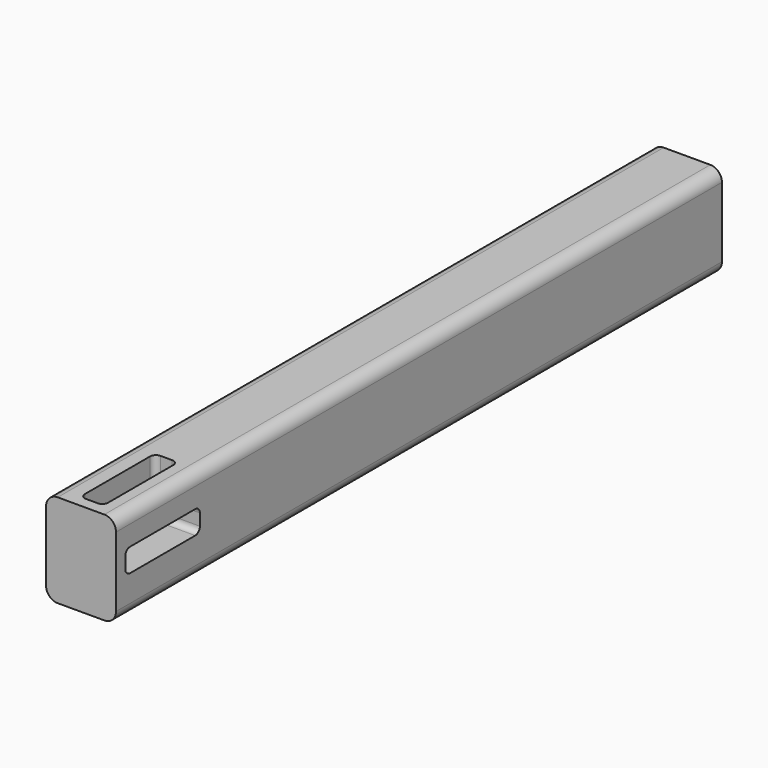
from build123d import *

# Parameters (mm, degrees)
F0_W     = 38.1
F0_H     = 50.8
F1_DEPTH = 412.75
F3_DEPTH = 15.875
F5_DEPTH = 15.875
F6_R     = 6.35


with BuildPart() as f1:
    # F0 (on Front) → F1 (new body)
    with BuildSketch(Plane.XZ):
        with Locations((-2.406317, 4.562353)):
            Rectangle(F0_W, F0_H)
    extrude(amount=-F1_DEPTH)

    # F2 (on face) → F3 (cut)
    with BuildSketch(Plane.YZ.offset(16.643683)):
        with BuildLine():
            Line((53.975, 12.7), (9.525, 12.7))
            ThreePointArc((9.525, 12.7), (7.279936, 11.770064), (6.35, 9.525))
            Line((6.35, 9.525), (6.35, 3.175))
            ThreePointArc((6.35, 3.175), (7.279936, 0.929936), (9.525, 0))
            Line((9.525, 0), (53.975, 0))
            ThreePointArc((53.975, 0), (56.220064, 0.929936), (57.15, 3.175))
            Line((57.15, 3.175), (57.15, 9.525))
            ThreePointArc((57.15, 9.525), (56.220064, 11.770064), (53.975, 12.7))
        make_face()
    extrude(amount=-F3_DEPTH, mode=Mode.SUBTRACT)

    # F4 (on face) → F5 (cut)
    with BuildSketch(Plane.XY.offset(29.962353)):
        with BuildLine():
            ThreePointArc((-4.797424, 57.15), (-7.042488, 56.220064), (-7.972424, 53.975))
            Line((-7.972424, 53.975), (-7.972424, 9.525))
            ThreePointArc((-7.972424, 9.525), (-7.042488, 7.279936), (-4.797424, 6.35))
            Line((-4.797424, 6.35), (1.552576, 6.35))
            ThreePointArc((1.552576, 6.35), (3.79764, 7.279936), (4.727576, 9.525))
            Line((4.727576, 9.525), (4.727576, 53.975))
            ThreePointArc((4.727576, 53.975), (3.79764, 56.220064), (1.552576, 57.15))
            Line((1.552576, 57.15), (-4.797424, 57.15))
        make_face()
    extrude(amount=-F5_DEPTH, mode=Mode.SUBTRACT)

    # F6
    f6_edges = [f1.edges().sort_by_distance(p)[0] for p in [
        (16.643683, 206.375, -20.837647),
        (-21.456317, 206.375, -20.837647),
        (16.643683, 206.375, 29.962353),
        (-21.456317, 206.375, 29.962353),
    ]]
    fillet(f6_edges, radius=F6_R)


solid = f1.part
